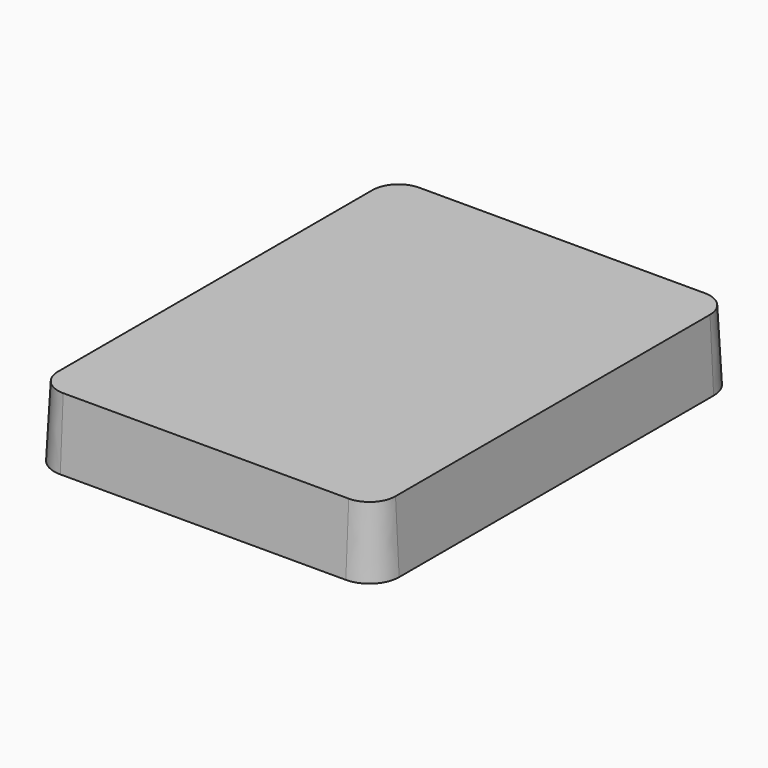
from build123d import *

# Parameters (mm, degrees)
F1_DEPTH = 15
F1_TAPER = 3
F2_T     = -2


with BuildPart() as f1:
    # F0 (on Top) → F1 (new body)
    with BuildSketch(Plane.XY):
        with BuildLine():
            ThreePointArc((36.9276963174, 42.0978697181), (35.067824378, 46.5879977786), (30.5776963174, 48.4478697181))
            Line((30.5776963174, 48.4478697181), (-30.5776963174, 48.4478697181))
            ThreePointArc((-30.5776963174, 48.4478697181), (-35.067824378, 46.5879977786), (-36.9276963174, 42.0978697181))
            Line((-36.9276963174, 42.0978697181), (-36.9276963174, -42.0978697181))
            ThreePointArc((-36.9276963174, -42.0978697181), (-35.067824378, -46.5879977786), (-30.5776963174, -48.4478697181))
            Line((-30.5776963174, -48.4478697181), (30.5776963174, -48.4478697181))
            ThreePointArc((30.5776963174, -48.4478697181), (35.067824378, -46.5879977786), (36.9276963174, -42.0978697181))
            Line((36.9276963174, -42.0978697181), (36.9276963174, 42.0978697181))
        make_face()
    extrude(amount=F1_DEPTH, taper=F1_TAPER)

    # F2
    f2_openings = [f1.faces().sort_by_distance(p)[0] for p in [
        (0, 0, 0),
    ]]
    offset(amount=F2_T, openings=f2_openings)


solid = f1.part
